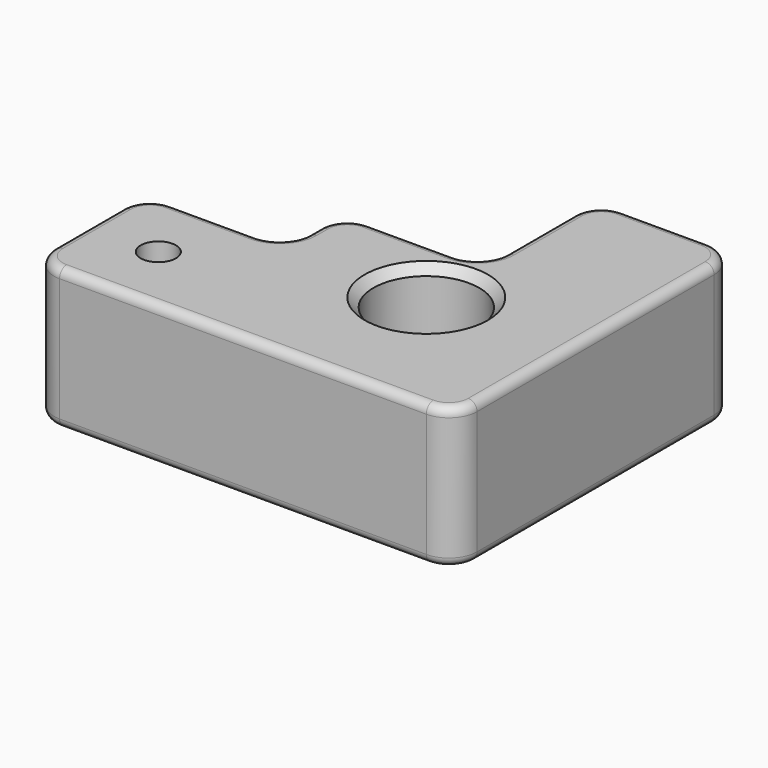
from build123d import *

# Parameters (mm, degrees)
F0_R     = 3.175
F0_R_2   = 9.525
F1_DEPTH = 25.4
F2_R     = 5.08
F3_SIZE  = 1.5875
F4_R     = 1.5875
F5_SIZE  = 1.5875


with BuildPart() as f1:
    # F0 (on Top) → F1 (new body)
    with BuildSketch(Plane.XY):
        Polygon((0, 0), (-25.4, 0), (-25.4, -25.4), (50.8, -25.4), (50.8, 38.1), (25.4, 38.1), (25.4, 12.7), (0, 12.7), align=None)
        with Locations((-12.7, -12.7)):
            Circle(F0_R, mode=Mode.SUBTRACT)
        with Locations((25.4, 0)):
            Circle(F0_R_2, mode=Mode.SUBTRACT)
    extrude(amount=F1_DEPTH)

    # F2
    f2_edges = [f1.edges().sort_by_distance(p)[0] for p in [
        (50.8, 38.1, 12.7),
        (25.4, 38.1, 12.7),
        (25.4, 12.7, 12.7),
        (0, 12.7, 12.7),
        (0, 0, 12.7),
        (-25.4, 0, 12.7),
        (-25.4, -25.4, 12.7),
        (50.8, -25.4, 12.7),
    ]]
    fillet(f2_edges, radius=F2_R)

    # F3
    f3_edges = [f1.edges().sort_by_distance(p)[0] for p in [
        (15.875, 0, 25.4),
    ]]
    chamfer(f3_edges, length=F3_SIZE)

    # F4
    f4_edges = [f1.edges().sort_by_distance(p)[0] for p in [
        (-25.4, -12.7, 25.4),
        (12.7, -25.4, 0),
    ]]
    fillet(f4_edges, radius=F4_R)

    # F5
    f5_edges = [f1.edges().sort_by_distance(p)[0] for p in [
        (15.875, 0, 0),
    ]]
    chamfer(f5_edges, length=F5_SIZE)


solid = f1.part
